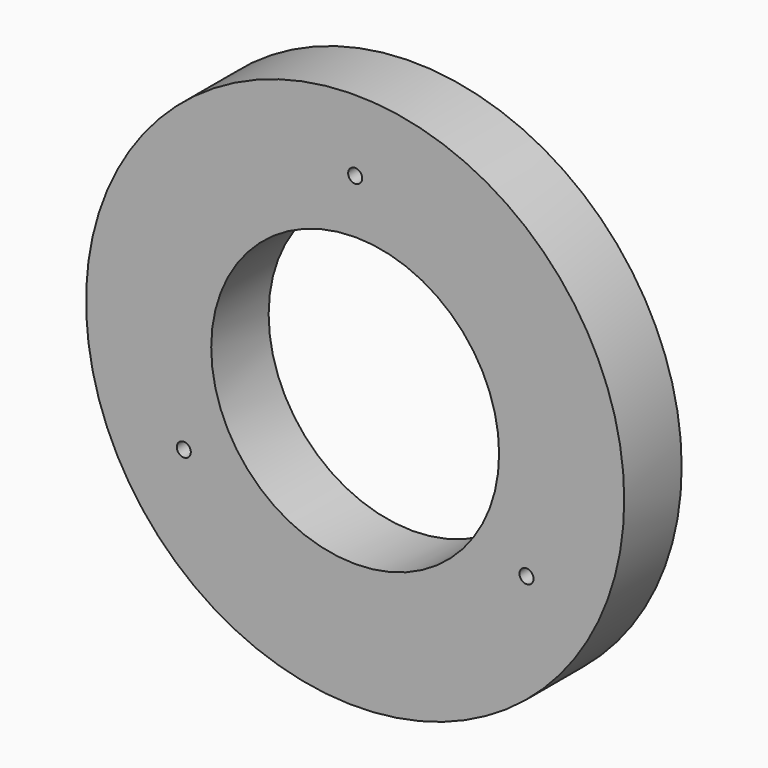
from build123d import *

# Parameters (mm, degrees)
F0_R     = 4.760132
F2_DEPTH = 1.27
F1_R     = 2.546317
F3_DEPTH = 12.7
F4_R     = 0.123894
F5_DEPTH = 25.4


with BuildPart() as f2:
    # F0 (on Front) → F2 (new body)
    with BuildSketch(Plane.XZ):
        Circle(F0_R)
    extrude(amount=F2_DEPTH)

    # F1 (on face) → F3 (cut)
    with BuildSketch(Plane.XZ):
        Circle(F1_R)
    extrude(amount=F3_DEPTH, mode=Mode.SUBTRACT)

    # F4 (on face) → F5 (cut)
    with BuildSketch(Plane.XZ.offset(1.27)):
        with Locations((0, 3.499863)):
            Circle(F4_R)
        with Locations((-3.03097, -1.749931)):
            Circle(F4_R)
        with Locations((3.03097, -1.749931)):
            Circle(F4_R)
    extrude(amount=-F5_DEPTH, mode=Mode.SUBTRACT)


solid = f2.part
